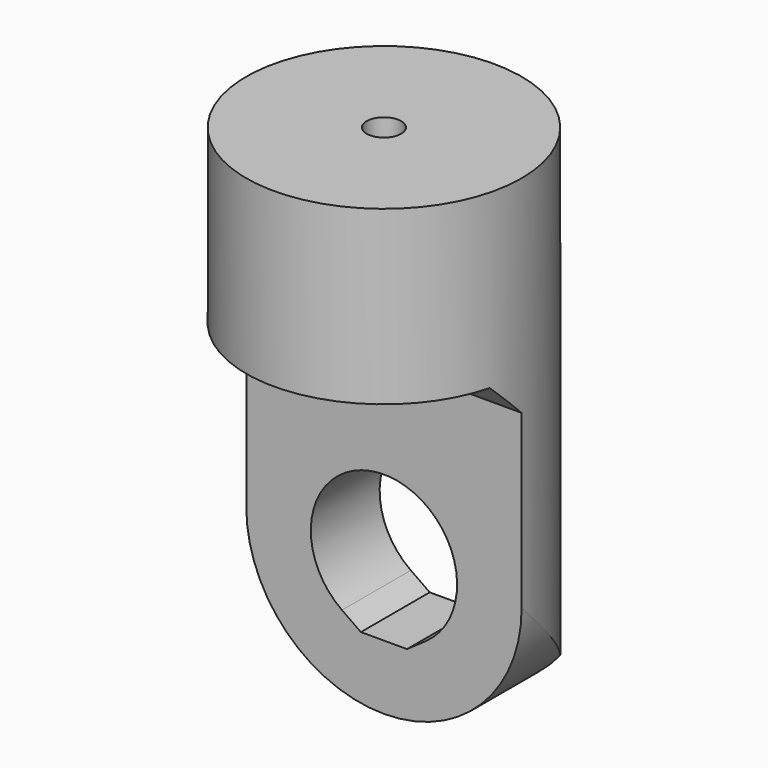
from build123d import *

# Parameters (mm, degrees)
SKETCH003_W             = 16
SKETCH003_H             = 16
PAD_DEPTH               = 10
PAD001_DEPTH            = 5
CHAMFER_SIZE            = 2
SKETCH002_R             = 15
SKETCH002_R_2           = 8
POCKET_DEPTH            = 30.001
SKETCH007_R             = 1
POCKET002_DEPTH         = 4
BODY001_PLACEMENT_ANGLE = 180


with BuildPart() as part:
    # Sketch003 → Pad (new body)
    with BuildSketch(Plane.XY):
        Rectangle(SKETCH003_W, SKETCH003_H)
    extrude(amount=PAD_DEPTH)

    # Sketch001 → Pad001 (join)
    with BuildSketch(Plane.XZ):
        with BuildLine():
            Line((8, 10), (8, 22))
            ThreePointArc((8, 22), (0, 30), (-8, 22))
            Line((-8, 22), (-8, 10))
            Line((-8, 10), (8, 10))
        make_face()
        with BuildLine():
            ThreePointArc((-2.4377, 25.481396), (0, 17.75), (2.4377, 25.481396))
            Line((1.34002, 26.25), (2.4377, 25.481396))
            Line((-1.34002, 26.25), (1.34002, 26.25))
            Line((-1.34002, 26.25), (-2.4377, 25.481396))
        make_face(mode=Mode.SUBTRACT)
    extrude(amount=PAD001_DEPTH)

    # Chamfer
    chamfer_edges = [part.edges().sort_by_distance(p)[0] for p in [
        (0, -5, 10),
        (0, 0, 10),
    ]]
    chamfer(chamfer_edges, length=CHAMFER_SIZE)

    # Sketch002 → Pocket (cut, through all)
    with BuildSketch(Plane.XY):
        Circle(SKETCH002_R)
        Circle(SKETCH002_R_2, mode=Mode.SUBTRACT)
    extrude(amount=POCKET_DEPTH, mode=Mode.SUBTRACT)

    # Sketch007 (on Face13 of Pocket) → Pocket002 (cut)
    with BuildSketch(Plane(origin=(0, 0, 0), x_dir=(1, 0, 0), z_dir=(0, 0, -1))):
        Circle(SKETCH007_R)
    extrude(amount=-POCKET002_DEPTH, mode=Mode.SUBTRACT)


with BuildPart() as part_1:
    # Body001 placement: moved
    add(part.part.moved(Location((0, 0, 44.2))).rotate(Axis((0, 0, 44.2), (1, 0, 0)), BODY001_PLACEMENT_ANGLE))


solid = part_1.part
